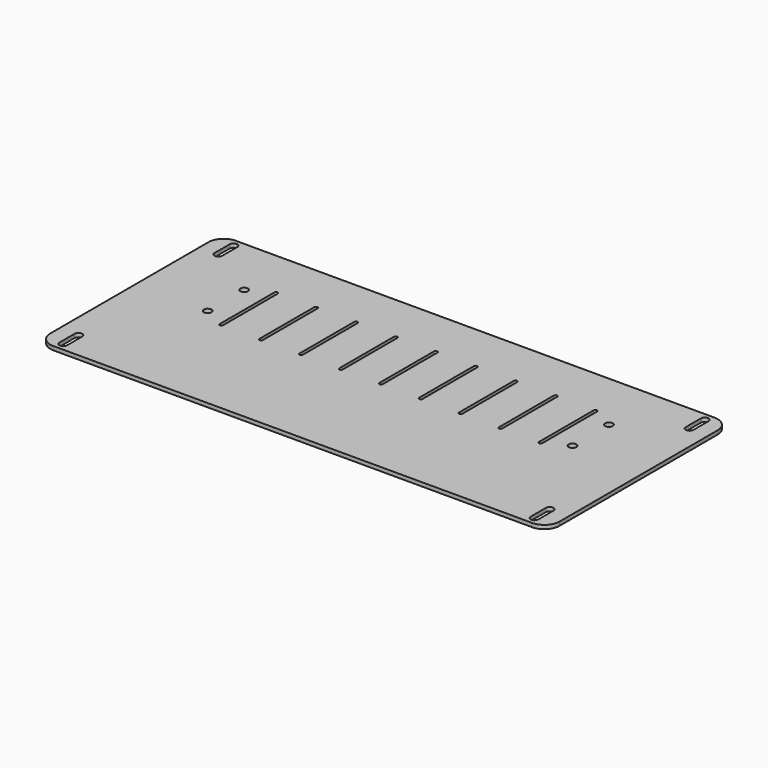
from build123d import *

# Parameters (mm, degrees)
F0_R     = 5
F1_DEPTH = 5


with BuildPart() as f1:
    # F0 (on Top) → F1 (new body)
    with BuildSketch(Plane.XY):
        with BuildLine():
            Line((315, 150), (-315, 150))
            ThreePointArc((-315, 150), (-329.142136, 144.142136), (-335, 130))
            Line((-335, 130), (-335, -130))
            ThreePointArc((-335, -130), (-329.142136, -144.142136), (-315, -150))
            Line((-315, -150), (315, -150))
            ThreePointArc((315, -150), (329.142136, -144.142136), (335, -130))
            Line((335, -130), (335, 130))
            ThreePointArc((335, 130), (329.142136, 144.142136), (315, 150))
        make_face()
        with BuildLine():
            Line((-315, -140), (-315, -115))
            ThreePointArc((-315, -115), (-310, -110), (-305, -115))
            Line((-305, -115), (-305, -140))
            ThreePointArc((-305, -140), (-310, -145), (-315, -140))
        make_face(mode=Mode.SUBTRACT)
        with BuildLine():
            ThreePointArc((305, -115), (310, -110), (315, -115))
            Line((315, -115), (315, -140))
            ThreePointArc((315, -140), (310, -145), (305, -140))
            Line((305, -140), (305, -115))
        make_face(mode=Mode.SUBTRACT)
        with Locations((-240, 10)):
            Circle(F0_R, mode=Mode.SUBTRACT)
        with BuildLine():
            ThreePointArc((-207.75, -5), (-210, -7.25), (-212.25, -5))
            Line((-212.25, -5), (-212.25, 85))
            ThreePointArc((-212.25, 85), (-210, 87.25), (-207.75, 85))
            Line((-207.75, 85), (-207.75, -5))
        make_face(mode=Mode.SUBTRACT)
        with Locations((-240, 70)):
            Circle(F0_R, mode=Mode.SUBTRACT)
        with BuildLine():
            ThreePointArc((-159.75, 85), (-157.5, 87.25), (-155.25, 85))
            Line((-155.25, 85), (-155.25, -5))
            ThreePointArc((-155.25, -5), (-157.5, -7.25), (-159.75, -5))
            Line((-159.75, -5), (-159.75, 85))
        make_face(mode=Mode.SUBTRACT)
        with BuildLine():
            ThreePointArc((-107.25, 85), (-105, 87.25), (-102.75, 85))
            Line((-102.75, 85), (-102.75, -5))
            ThreePointArc((-102.75, -5), (-105, -7.25), (-107.25, -5))
            Line((-107.25, -5), (-107.25, 85))
        make_face(mode=Mode.SUBTRACT)
        with BuildLine():
            ThreePointArc((-54.75, 85), (-52.5, 87.25), (-50.25, 85))
            Line((-50.25, 85), (-50.25, -5))
            ThreePointArc((-50.25, -5), (-52.5, -7.25), (-54.75, -5))
            Line((-54.75, -5), (-54.75, 85))
        make_face(mode=Mode.SUBTRACT)
        with BuildLine():
            ThreePointArc((-315, 140), (-310, 145), (-305, 140))
            Line((-305, 140), (-305, 115))
            ThreePointArc((-305, 115), (-310, 110), (-315, 115))
            Line((-315, 115), (-315, 140))
        make_face(mode=Mode.SUBTRACT)
        with BuildLine():
            ThreePointArc((-2.25, 85), (0, 87.25), (2.25, 85))
            Line((2.25, 85), (2.25, -5))
            ThreePointArc((2.25, -5), (0, -7.25), (-2.25, -5))
            Line((-2.25, -5), (-2.25, 85))
        make_face(mode=Mode.SUBTRACT)
        with BuildLine():
            ThreePointArc((50.25, 85), (52.5, 87.25), (54.75, 85))
            Line((54.75, 85), (54.75, -5))
            ThreePointArc((54.75, -5), (52.5, -7.25), (50.25, -5))
            Line((50.25, -5), (50.25, 85))
        make_face(mode=Mode.SUBTRACT)
        with BuildLine():
            ThreePointArc((102.75, 85), (105, 87.25), (107.25, 85))
            Line((107.25, 85), (107.25, -5))
            ThreePointArc((107.25, -5), (105, -7.25), (102.75, -5))
            Line((102.75, -5), (102.75, 85))
        make_face(mode=Mode.SUBTRACT)
        with BuildLine():
            ThreePointArc((155.25, 85), (157.5, 87.25), (159.75, 85))
            Line((159.75, 85), (159.75, -5))
            ThreePointArc((159.75, -5), (157.5, -7.25), (155.25, -5))
            Line((155.25, -5), (155.25, 85))
        make_face(mode=Mode.SUBTRACT)
        with Locations((240, 10)):
            Circle(F0_R, mode=Mode.SUBTRACT)
        with BuildLine():
            ThreePointArc((207.75, 85), (210, 87.25), (212.25, 85))
            Line((212.25, 85), (212.25, -5))
            ThreePointArc((212.25, -5), (210, -7.25), (207.75, -5))
            Line((207.75, -5), (207.75, 85))
        make_face(mode=Mode.SUBTRACT)
        with Locations((240, 70)):
            Circle(F0_R, mode=Mode.SUBTRACT)
        with BuildLine():
            Line((315, 140), (315, 115))
            ThreePointArc((315, 115), (310, 110), (305, 115))
            Line((305, 115), (305, 140))
            ThreePointArc((305, 140), (310, 145), (315, 140))
        make_face(mode=Mode.SUBTRACT)
    extrude(amount=F1_DEPTH)


solid = f1.part
